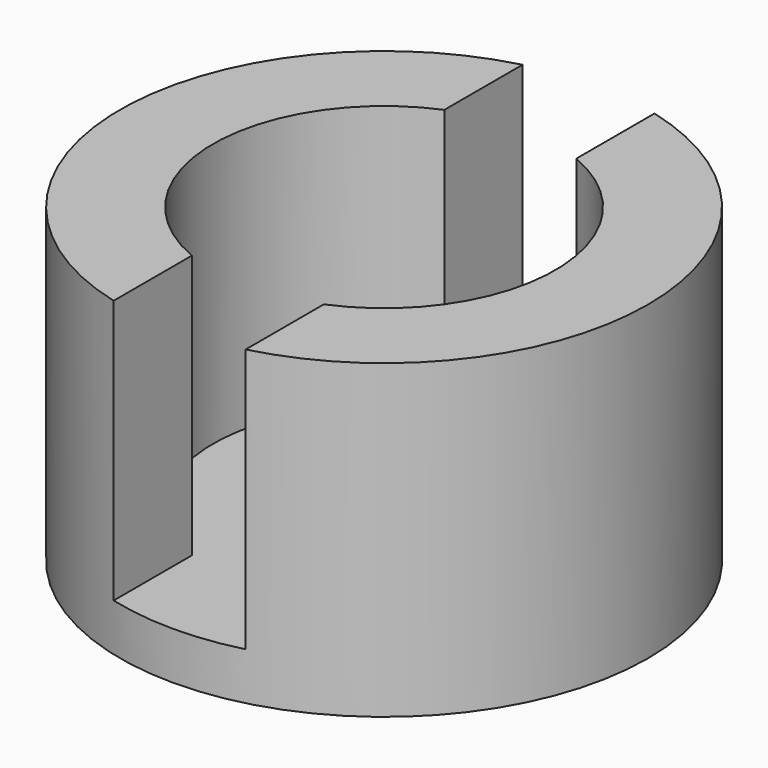
from build123d import *

# Parameters (mm, degrees)
F0_R     = 12.7
F0_R_2   = 8.2296
F1_DEPTH = 2.286
F2_DEPTH = 12.7
F3_W     = 6.35
F3_H     = 35.38055
F4_DEPTH = 12.7


with BuildPart() as f1:
    # F0 (on Top) → F1 (new body)
    with BuildSketch(Plane.XY):
        Circle(F0_R)
        Circle(F0_R_2, mode=Mode.SUBTRACT)
        Circle(F0_R_2)
    extrude(amount=-F1_DEPTH)

    # F0 (on Top) → F2 (join)
    with BuildSketch(Plane.XY):
        Circle(F0_R)
        Circle(F0_R_2, mode=Mode.SUBTRACT)
    extrude(amount=F2_DEPTH)

    # F3 (on face) → F4 (cut, through all)
    with BuildSketch(Plane.XY.offset(12.7)):
        Rectangle(F3_W, F3_H)
    extrude(amount=-F4_DEPTH, mode=Mode.SUBTRACT)


solid = f1.part
